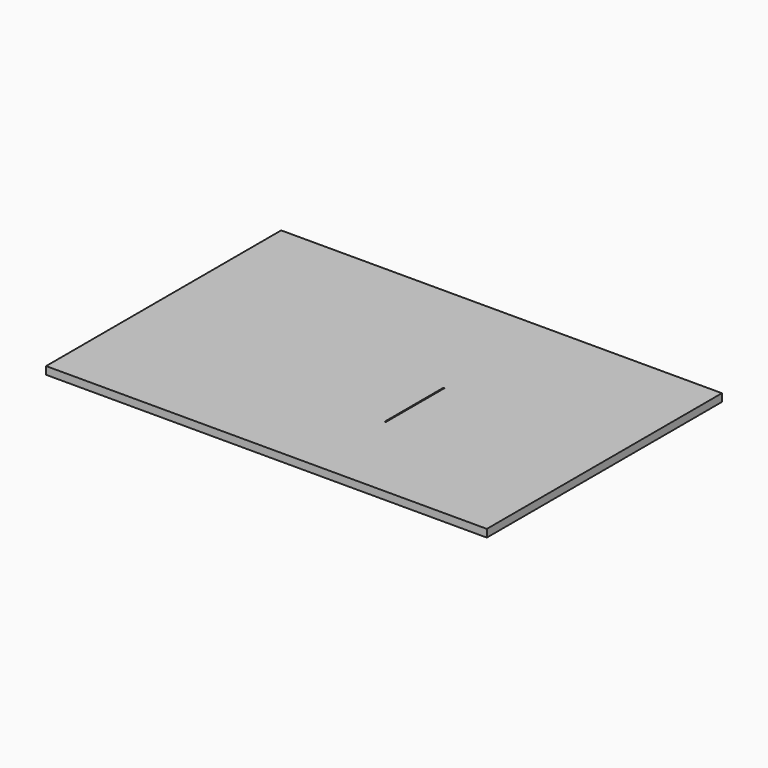
from build123d import *

# Parameters (mm, degrees)
F0_W     = 1200
F0_H     = 800
F1_DEPTH = 21
F2_W     = 250
F2_H     = 500
F3_DEPTH = 15
F4_R     = 8
F5_R     = 8
F6_R     = 8
F7_R     = 8
F8_W     = 3
F8_H     = 200
F9_DEPTH = 25


with BuildPart() as f1:
    # F0 (on Top) → F1 (new body)
    with BuildSketch(Plane.XY):
        with Locations((-0.654887, 101.971073)):
            Rectangle(F0_W, F0_H)
    extrude(amount=F1_DEPTH)

    # F2 (on face) → F3 (cut)
    with BuildSketch(Plane(origin=(0, 0, 0), x_dir=(1, 0, 0), z_dir=(0, 0, -1))):
        with Locations((-0.654887, -51.971073)):
            Rectangle(F2_W, F2_H)
    extrude(amount=-F3_DEPTH, mode=Mode.SUBTRACT)

    # F4
    f4_edges = [f1.edges().sort_by_distance(p)[0] for p in [
        (-125.654887, -198.028927, 7.5),
    ]]
    fillet(f4_edges, radius=F4_R)

    # F5
    f5_edges = [f1.edges().sort_by_distance(p)[0] for p in [
        (124.345113, 301.971073, 7.5),
    ]]
    fillet(f5_edges, radius=F5_R)

    # F6
    f6_edges = [f1.edges().sort_by_distance(p)[0] for p in [
        (124.345113, -198.028927, 7.5),
    ]]
    fillet(f6_edges, radius=F6_R)

    # F7
    f7_edges = [f1.edges().sort_by_distance(p)[0] for p in [
        (-125.654887, 301.971073, 7.5),
    ]]
    fillet(f7_edges, radius=F7_R)

    # F8 (on face) → F9 (cut)
    with BuildSketch(Plane(origin=(0, 0, 15), x_dir=(1, 0, 0), z_dir=(0, 0, -1))):
        with Locations((122.845113, -51.971073)):
            Rectangle(F8_W, F8_H)
    extrude(amount=-F9_DEPTH, mode=Mode.SUBTRACT)


solid = f1.part
